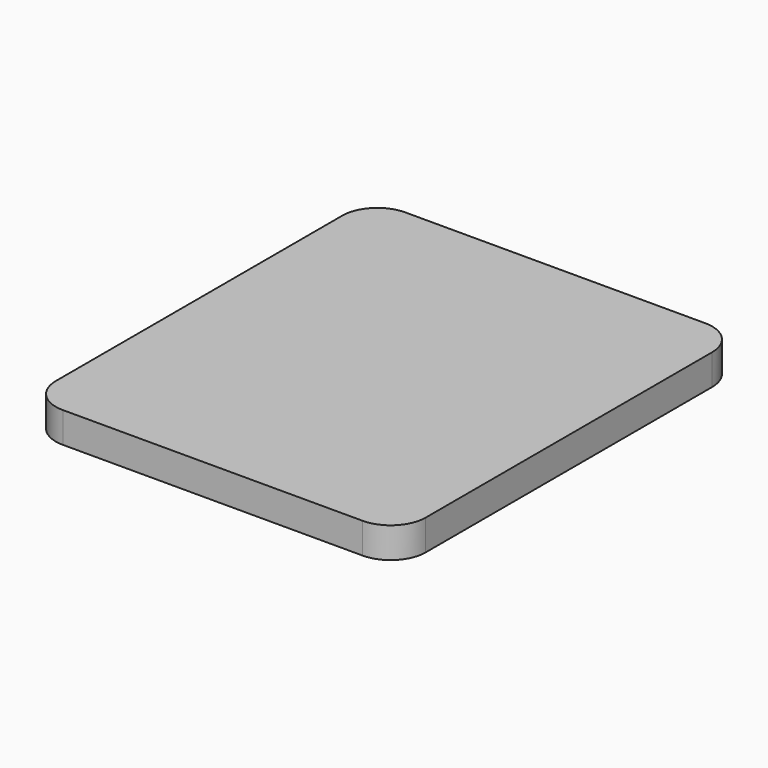
from build123d import *

# Parameters (mm, degrees)
F0_W     = 53.673375
F0_H     = 62.118877
F1_DEPTH = 4.445
F2_R     = 5.08
F3_R     = 5.08
F4_R     = 5.08
F5_R     = 5.08


with BuildPart() as f1:
    # F0 (on Top) → F1 (new body)
    with BuildSketch(Plane.XY):
        with Locations((-26.836688, 31.059438)):
            Rectangle(F0_W, F0_H)
    extrude(amount=F1_DEPTH)

    # F2
    f2_edges = [f1.edges().sort_by_distance(p)[0] for p in [
        (0, 62.118877, 2.2225),
    ]]
    fillet(f2_edges, radius=F2_R)

    # F3
    f3_edges = [f1.edges().sort_by_distance(p)[0] for p in [
        (-53.673375, 62.118877, 2.2225),
    ]]
    fillet(f3_edges, radius=F3_R)

    # F4
    f4_edges = [f1.edges().sort_by_distance(p)[0] for p in [
        (-53.673375, 0, 2.2225),
    ]]
    fillet(f4_edges, radius=F4_R)

    # F5
    f5_edges = [f1.edges().sort_by_distance(p)[0] for p in [
        (0, 0, 2.2225),
    ]]
    fillet(f5_edges, radius=F5_R)


solid = f1.part
